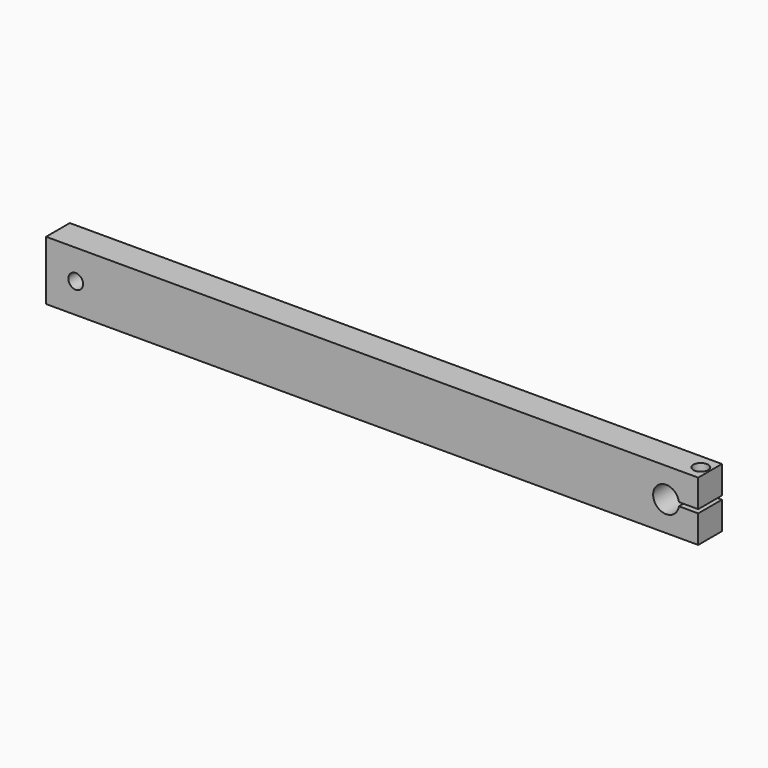
from build123d import *

# Parameters (mm, degrees)
F0_W     = 279.4
F0_H     = 25.4
F1_DEPTH = 12.7
F3_R     = 1.5875
F4_DEPTH = 25.401
F5_R     = 3.175
F6_DEPTH = 3.96875
F7_DEPTH = 12.701


with BuildPart() as f1:
    # F0 (on Front) → F1 (new body)
    with BuildSketch(Plane.XZ):
        Rectangle(F0_W, F0_H)
    extrude(amount=F1_DEPTH)

    # F3 (on face) → F4 (cut, through all)
    with BuildSketch(Plane.XY.offset(12.7)):
        with Locations((135.7249, -6.35)):
            Circle(F3_R)
    extrude(amount=-F4_DEPTH, mode=Mode.SUBTRACT)

    # F5 (on face) → F6 (cut)
    with BuildSketch(Plane.XY.offset(12.7)):
        with Locations((135.7249, -6.35)):
            Circle(F5_R)
    extrude(amount=-F6_DEPTH, mode=Mode.SUBTRACT)

    # F2 (on face) → F7 (cut, through all)
    with BuildSketch(Plane.XZ.offset(12.7)):
        with BuildLine():
            ThreePointArc((-130.175, 0), (-127, -3.175), (-123.825, 0))
            ThreePointArc((-123.825, 0), (-127, 3.175), (-130.175, 0))
        make_face()
        with BuildLine():
            Line((139.7, 0.79375), (131.448406, 0.79375))
            ThreePointArc((131.448406, 0.79375), (120.392894, 0), (131.448406, -0.79375))
            Line((131.448406, -0.79375), (139.7, -0.79375))
            Line((139.7, -0.79375), (139.7, 0.79375))
        make_face()
    extrude(amount=-F7_DEPTH, mode=Mode.SUBTRACT)


solid = f1.part
